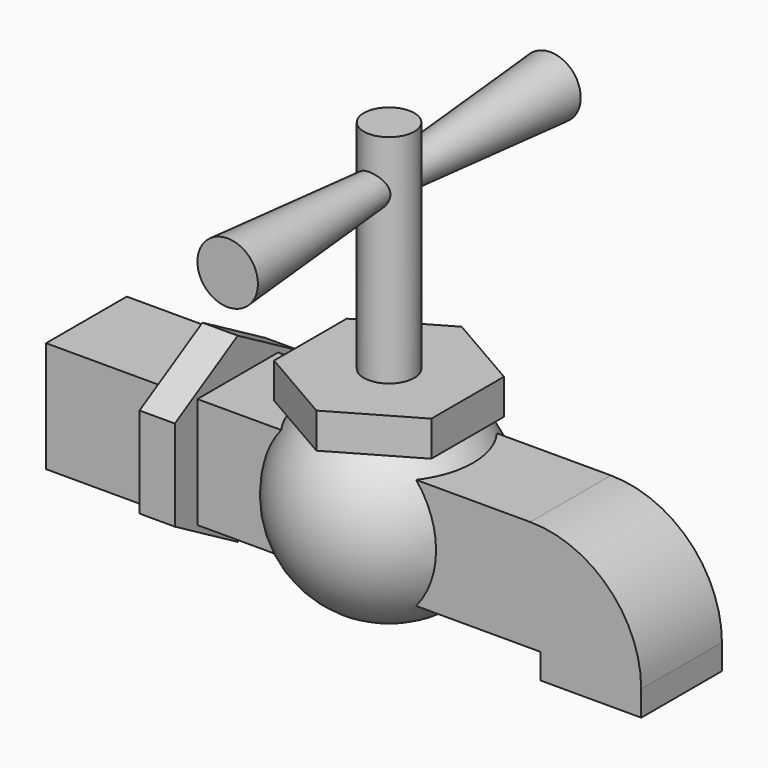
from build123d import *

# Parameters (mm, degrees)
CYLINDER_R     = 0.25
CYLINDER_DEPTH = 2.5
PAD_DEPTH      = 0.35
PAD001_DEPTH   = 0.5
PRISM_DEPTH    = 0.35
PAD002_DEPTH   = 0.45
POCKET_DEPTH   = 0.45


with BuildPart() as part:
    # Cylinder → Cylinder (join)
    with BuildSketch(Plane.XY):
        Circle(CYLINDER_R)
    extrude(amount=CYLINDER_DEPTH)

    # Cone → Cone (revolve)
    with BuildSketch(Plane(origin=(0, 0, 2), x_dir=(1, 0, 0), z_dir=(0, 0, -1))):
        Polygon((0, 0), (0.15, 0), (0.3, 2), (0, 2), align=None)
    cone = revolve(axis=Axis((0, 0, 2), (0, -1, 0)))

    # Mirrored: Cone across XZ
    add(cone.mirror(Plane.XZ))

    # Sketch (on Face1 of Mirrored) → Pad (join)
    with BuildSketch(Plane(origin=(0, 0, 0), x_dir=(1, 0, 0), z_dir=(0, 0, -1))):
        Polygon((0.779423, -0.45), (0.779423, 0.45), (0, 0.9), (-0.779423, 0.45), (-0.779423, -0.45), (0, -0.9), align=None)
    extrude(amount=-PAD_DEPTH)

    # Sphere → Sphere (revolve)
    with BuildSketch(Plane(origin=(0, 0, -0.75), x_dir=(1, 0, 0), z_dir=(0, -1, 0))):
        with BuildLine():
            ThreePointArc((0, -1), (1, 0), (0, 1))
            Line((0, 1), (0, -1))
        make_face()
    revolve(axis=Axis((0, 0, -0.75), (0, 0, 1)))

    # Sketch001 (on Sphere) → Pad001 (join, symmetric)
    with BuildSketch(Plane(origin=(0, 0, -0.75), x_dir=(1, 0, 0), z_dir=(0, -1, 0))):
        with BuildLine():
            Line((-3, 0.55), (1.8, 0.55))
            ThreePointArc((2.9, -0.55), (2.577817, 0.227817), (1.8, 0.55))
            Line((2.9, -0.55), (2.9, -0.8))
            Line((2.9, -0.8), (1.9, -0.8))
            Line((1.9, -0.8), (1.9, -0.55))
            Line((1.9, -0.55), (-3, -0.55))
            Line((-3, -0.55), (-3, 0.55))
        make_face()
    extrude(amount=PAD001_DEPTH, both=True)

    # Prism → Prism (join)
    with BuildSketch(Plane(origin=(-1.5, 0, -0.75), x_dir=(0, -0.866025, 0.5), z_dir=(-1, 0, 0))):
        Polygon((0.9, 0), (0.45, 0.779423), (-0.45, 0.779423), (-0.9, 0), (-0.45, -0.779423), (0.45, -0.779423), align=None)
    extrude(amount=PRISM_DEPTH)

    # Sketch002 (on Sphere) → Pad002 (join, symmetric)
    with BuildSketch(Plane(origin=(0, 0, -0.75), x_dir=(1, 0, 0), z_dir=(0, -1, 0))):
        with BuildLine():
            Line((-3, -0.5), (-3, 0.5))
            Line((-3, 0.5), (1.754555, 0.5))
            ThreePointArc((2.85, -0.5), (2.496175, 0.212404), (1.754555, 0.5))
            Line((2.85, -0.5), (2.85, -0.8))
            Line((2.85, -0.8), (1.95, -0.8))
            Line((1.95, -0.8), (1.95, -0.5))
            Line((1.95, -0.5), (-3, -0.5))
        make_face()
    extrude(amount=PAD002_DEPTH, both=True)

    # Sketch002 (on Sphere) → Pocket (cut, symmetric)
    with BuildSketch(Plane(origin=(0, 0, -0.75), x_dir=(1, 0, 0), z_dir=(0, -1, 0))):
        with BuildLine():
            Line((-3, -0.5), (-3, 0.5))
            Line((-3, 0.5), (1.754555, 0.5))
            ThreePointArc((2.85, -0.5), (2.496175, 0.212404), (1.754555, 0.5))
            Line((2.85, -0.5), (2.85, -0.8))
            Line((2.85, -0.8), (1.95, -0.8))
            Line((1.95, -0.8), (1.95, -0.5))
            Line((1.95, -0.5), (-3, -0.5))
        make_face()
    extrude(amount=POCKET_DEPTH, both=True, mode=Mode.SUBTRACT)


solid = part.part
